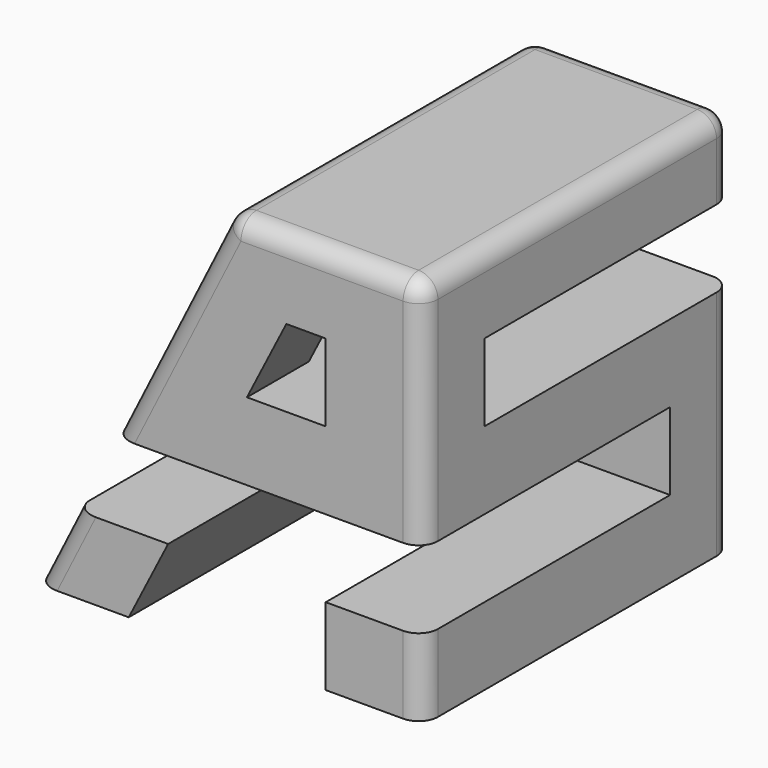
from build123d import *

# Parameters (mm, degrees)
F1_DEPTH = 100
F2_W     = 80
F2_H     = 20
F3_DEPTH = 100
F4_W     = 80
F4_H     = 20
F5_DEPTH = 100
F6_R     = 5


with BuildPart() as f1:
    # F0 (on Front) → F1 (new body)
    with BuildSketch(Plane.XZ):
        Polygon((0, 50), (-50, -50), (-25.9177014232, -50), (-15.7341611385, -30), (-5.5506208539, -10), (25, -10), (25, -30), (25, -50), (50, -50), (50, -30), (50, -10), (50, 10), (50, 30), (50, 50), (25, 50), align=None)
        Polygon((14.8164597154, 30), (25, 30), (25, 10), (4.6329194307, 10), align=None, mode=Mode.SUBTRACT)
    extrude(amount=F1_DEPTH)

    # F2 (on face) → F3 (cut)
    with BuildSketch(Plane.YZ.offset(50)):
        with Locations((-60, -20)):
            Rectangle(F2_W, F2_H)
    extrude(amount=-F3_DEPTH, mode=Mode.SUBTRACT)

    # F4 (on face) → F5 (cut)
    with BuildSketch(Plane.YZ.offset(50)):
        with Locations((-40, 20)):
            Rectangle(F4_W, F4_H)
    extrude(amount=-F5_DEPTH, mode=Mode.SUBTRACT)

    # F6
    f6_edges = [f1.edges().sort_by_distance(p)[0] for p in [
        (50, -100, -40),
        (50, -100, 20),
        (50, -50, 50),
        (25, -100, 50),
        (0, -50, 50),
        (-15, -100, 20),
        (-45, -100, -40),
        (50, 0, -20),
        (50, 0, 40),
        (-35, 0, -20),
        (-5, 0, 40),
        (25, 0, 50),
    ]]
    fillet(f6_edges, radius=F6_R)


solid = f1.part
